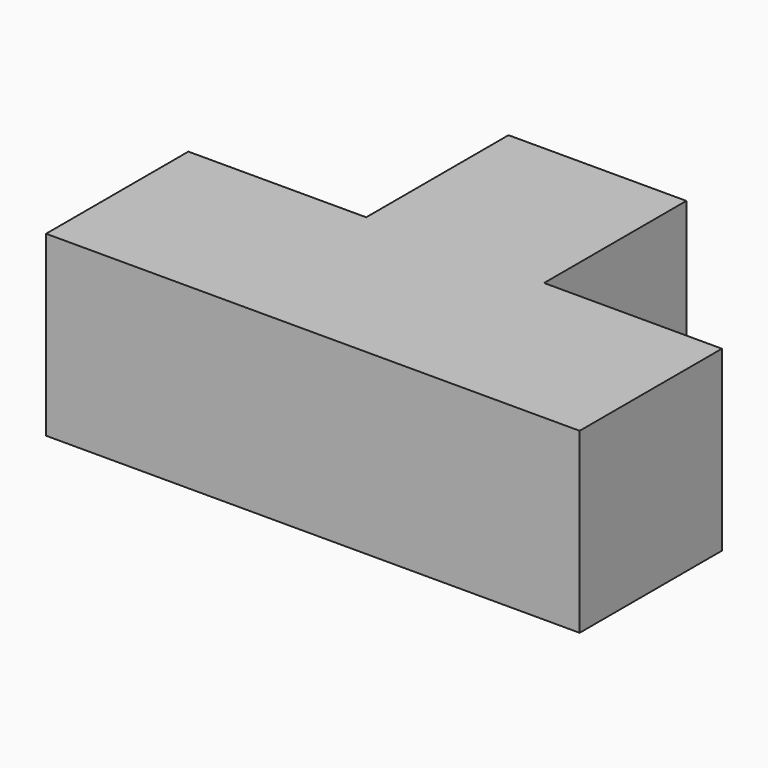
from build123d import *

# Parameters (mm, degrees)
F0_W     = 5
F0_H     = 5
F1_DEPTH = 5


with BuildPart() as f1:
    # F0 (on Top) → F1 (new body)
    with BuildSketch(Plane.XY):
        Rectangle(F0_W, F0_H)
        Polygon((2.5, -2.5), (-2.5, -2.5), (-7.5, -2.5), (-7.5, -7.5), (7.5, -7.5), (7.5, -2.5), align=None)
    extrude(amount=F1_DEPTH)


solid = f1.part
